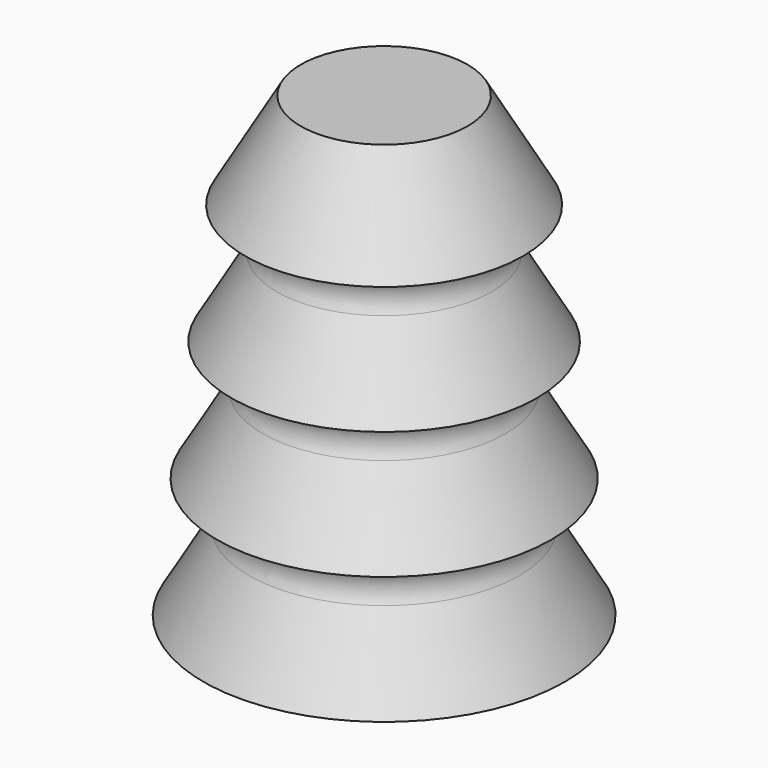
from build123d import *

# Parameters (mm, degrees)
F2_R = 2.54
F3_R = 1.27


with BuildPart() as f1:
    # F0 (on Front) → F1 (revolve)
    with BuildSketch(Plane.XZ):
        Polygon((5.08, 0), (8.255, 0), (5.08, 5.499261), (7.62, 5.499261), (4.445, 10.998523), (6.985, 10.998523), (3.81, 16.497784), (6.35, 16.497784), (3.81, 20.897193), (0, 20.897193), (0, 8.798818), align=None)
    revolve(axis=Axis((0, 0, 14.848006), (0, 0, -1)))

    # F2
    f2_edges = [f1.edges().sort_by_distance(p)[0] for p in [
        (-5.08, 0, 0),
    ]]
    fillet(f2_edges, radius=F2_R)

    # F3
    f3_edges = [f1.edges().sort_by_distance(p)[0] for p in [
        (-5.08, 0, 5.499261),
        (-4.445, 0, 10.998523),
        (-3.81, 0, 16.497784),
    ]]
    fillet(f3_edges, radius=F3_R)


solid = f1.part
